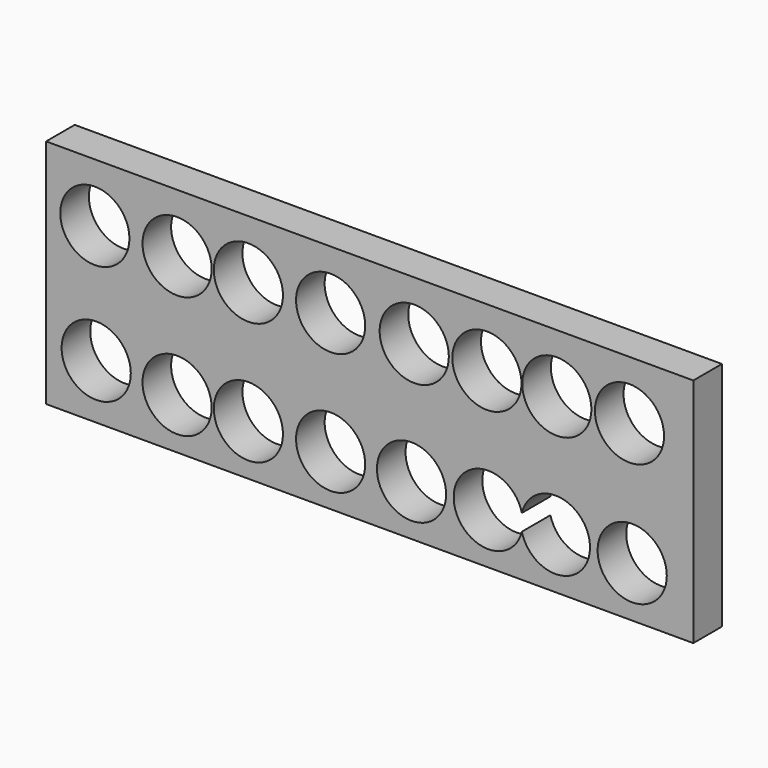
from build123d import *

# Parameters (mm, degrees)
F0_W     = 137.867876
F0_H     = 49.259346
F1_DEPTH = 7.62
F3_D     = 14.732


with BuildPart() as f1:
    # F0 (on Front) → F1 (new body)
    with BuildSketch(Plane.XZ):
        with Locations((-0.145737, -3.497705)):
            Rectangle(F0_W, F0_H)
    extrude(amount=F1_DEPTH)

    # F3 (through all)
    with Locations(Plane(origin=(0, 0, 0), x_dir=(-1, 0, 0), z_dir=(0, 1, 0))):
        with Locations((58.401458, -16.518429), (58.693469, 8.672178), (41.17303, -17.344348), (41.17303, 8.672178), (25.98865, -17.344348), (25.98865, 8.672178), (8.468213, -17.344348), (8.468213, 8.672178), (-8.760219, -17.344348), (-9.344233, 8.672178), (-25.112627, -17.344348), (-24.82062, 8.672178), (-39.420988, -17.344348), (-39.712995, 8.672178), (-55.773392, -17.344348), (-55.189379, 8.672178)):
            Hole(F3_D / 2)


solid = f1.part
